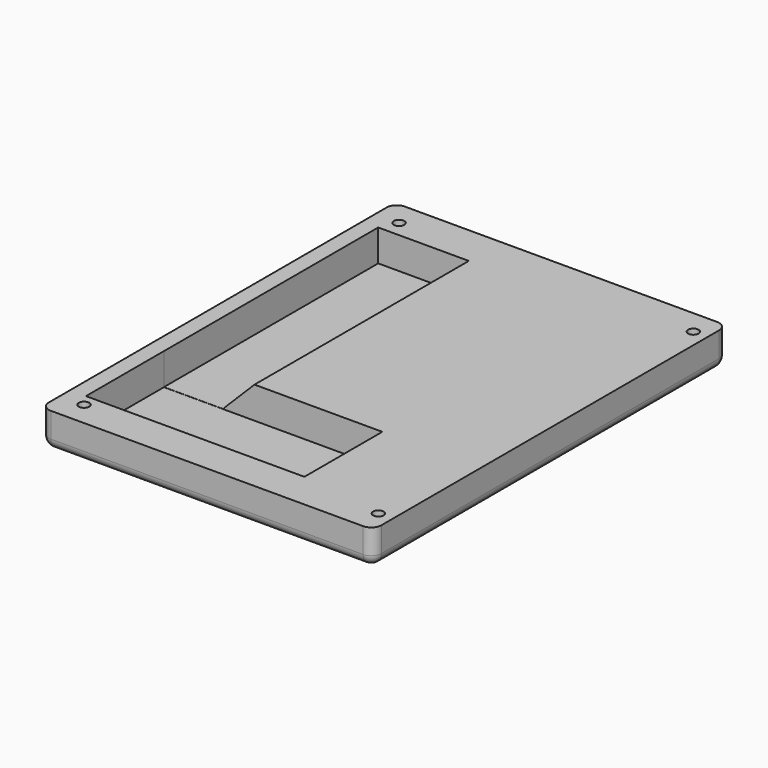
from build123d import *

# Parameters (mm, degrees)
SKETCH060_W     = 81.930373
SKETCH060_H     = 8.636624
PAD014_DEPTH    = 109
FILLET032_R     = 2.5
SKETCH061_W     = 53.822303
SKETCH061_H     = 19.035354
POCKET028_DEPTH = 24
SKETCH062_W     = 14.825619
SKETCH062_H     = 9.085716
POCKET029_DEPTH = 66
CHAMFER015_SIZE = 7.5
SKETCH063_R     = 1.3
POCKET030_DEPTH = 8.637624
CHAMFER016_SIZE = 1


with BuildPart() as part:
    # Sketch060 → Pad014 (new body)
    with BuildSketch(Plane.XZ.offset(-61)):
        with Locations((-3.438551, -16.819782)):
            Rectangle(SKETCH060_W, SKETCH060_H)
    extrude(amount=PAD014_DEPTH)

    # Fillet032
    fillet032_edges = [part.edges().sort_by_distance(p)[0] for p in [
        (-44.403737, 61, -16.819782),
        (37.526636, 61, -16.819782),
        (-3.43855, 61, -21.138094),
        (-44.403737, 6.5, -21.138094),
        (37.526636, 6.5, -21.138094),
        (37.526636, -48, -16.819782),
        (-3.43855, -48, -21.138094),
        (-44.403737, -48, -16.819782),
    ]]
    fillet(fillet032_edges, radius=FILLET032_R)

    # Sketch061 → Pocket028 (cut)
    with BuildSketch(Plane.XZ.offset(39)):
        with Locations((-13.565516, -10.812245)):
            Rectangle(SKETCH061_W, SKETCH061_H)
    extrude(amount=-POCKET028_DEPTH, mode=Mode.SUBTRACT)

    # Sketch062 → Pocket029 (cut)
    with BuildSketch(Plane.XZ.offset(15)):
        with Locations((-33.055162, -15.752031)):
            Rectangle(SKETCH062_W, SKETCH062_H)
    extrude(amount=-POCKET029_DEPTH, mode=Mode.SUBTRACT)

    # Chamfer015
    chamfer015_edges = [part.edges().sort_by_distance(p)[0] for p in [
        (-25.642353, 18, -12.50147),
    ]]
    chamfer(chamfer015_edges, length=CHAMFER015_SIZE)

    # Sketch063 (on Face28 of Chamfer015) → Pocket030 (cut, through all)
    with BuildSketch(Plane(origin=(0, 0, -21.138094), x_dir=(1, 0, 0), z_dir=(0, 0, -1))):
        with Locations((-38.519981, 42.037067)):
            Circle(SKETCH063_R)
        with Locations((34.008266, 42.037067)):
            Circle(SKETCH063_R)
        with Locations((34.008266, -54.977215)):
            Circle(SKETCH063_R)
        with Locations((-38.519981, -54.977215)):
            Circle(SKETCH063_R)
    extrude(amount=-POCKET030_DEPTH, mode=Mode.SUBTRACT)

    # Chamfer016
    chamfer016_edges = [part.edges().sort_by_distance(p)[0] for p in [
        (32.708266, -42.037067, -21.138094),
        (32.708266, 54.977215, -21.138094),
        (-39.819981, 54.977215, -21.138094),
        (-39.819981, -42.037067, -21.138094),
    ]]
    chamfer(chamfer016_edges, length=CHAMFER016_SIZE)


solid = part.part
